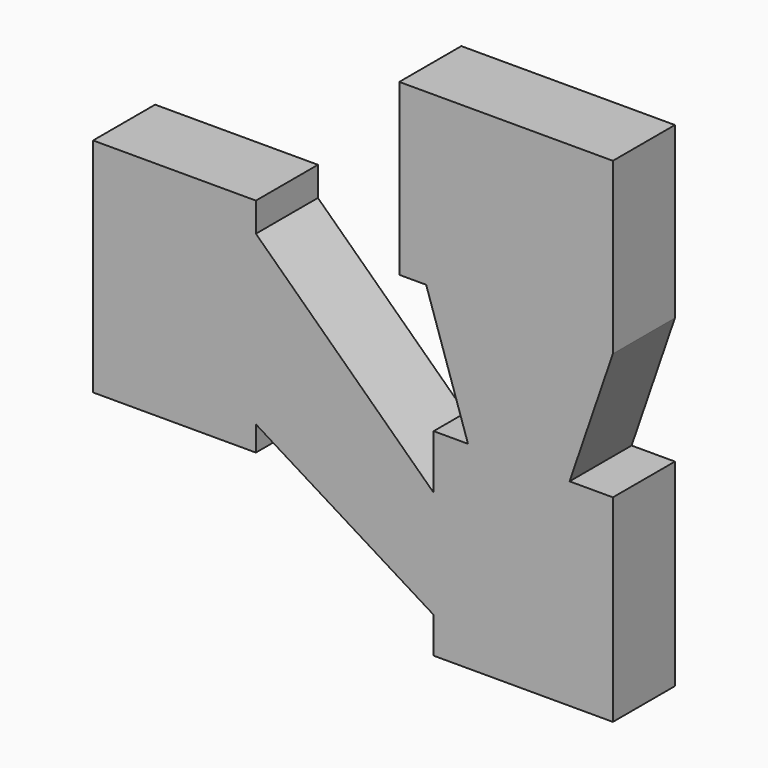
from build123d import *

# Parameters (mm, degrees)
F1_DEPTH = 12.7


with BuildPart() as f1:
    # F0 (on Front) → F1 (new body)
    with BuildSketch(Plane.XZ):
        Polygon((-79.139665, 60.888402), (-74.736215, 60.888402), (-44.156749, 60.888402), (-44.156749, 88.708244), (-79.139665, 88.708244), align=None)
        Polygon((-102.624685, 63.956387), (-129.289985, 63.956387), (-129.289985, 27.619565), (-102.624685, 27.619565), (-102.624685, 31.707756), (-102.624685, 59.177574), align=None)
        Polygon((-73.513038, 40.182184), (-73.513038, 31.304672), (-73.513038, 13.690901), (-73.513038, 7.802445), (-44.156749, 7.802445), (-44.156749, 40.182184), (-51.251188, 40.182184), (-67.88642, 40.182184), align=None)
        Polygon((-73.513038, 31.304672), (-102.624685, 59.177574), (-102.624685, 31.707756), (-73.513038, 13.690901), align=None)
        Polygon((-74.736215, 60.888402), (-67.88642, 40.182184), (-51.251188, 40.182184), (-44.156749, 60.888402), align=None)
    extrude(amount=F1_DEPTH)


solid = f1.part
